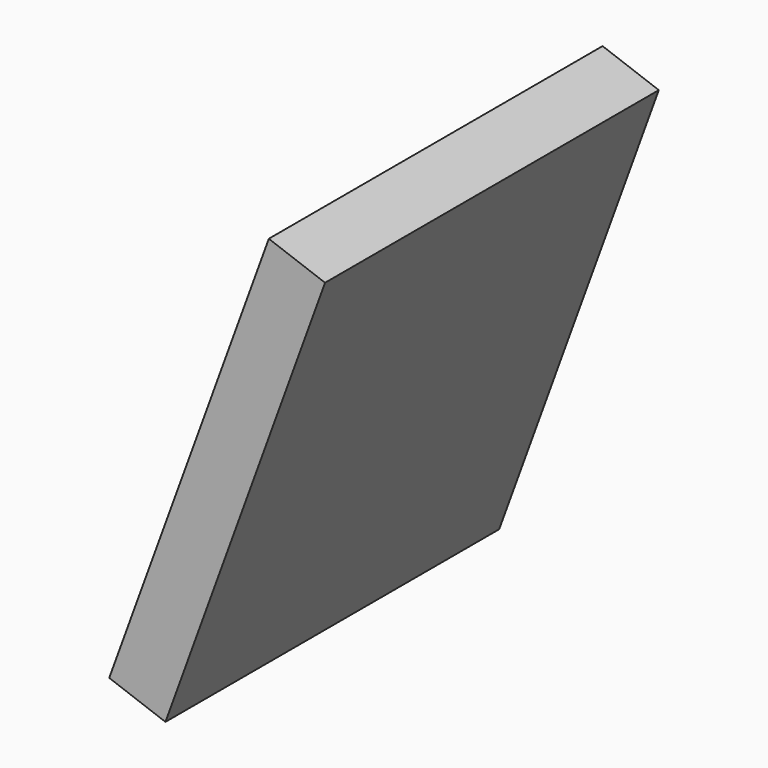
from build123d import *

# Parameters (mm, degrees)
PAD002_DEPTH      = 213.5
PAD002_DEPTH_BACK = 170


with BuildPart() as part:
    # Sketch002 → Pad002 (new body, two sides)
    with BuildSketch(Plane(origin=(0, 0, 0), x_dir=(-1, 0, 0), z_dir=(0, 1, 0))) as pad002_sk:
        Polygon((40, 50), (-106.726641, 453.128134), (-55.043547, 471.939242), (91.683094, 68.811108), align=None)
    extrude(amount=PAD002_DEPTH)
    extrude(pad002_sk.sketch, amount=-PAD002_DEPTH_BACK)


solid = part.part
